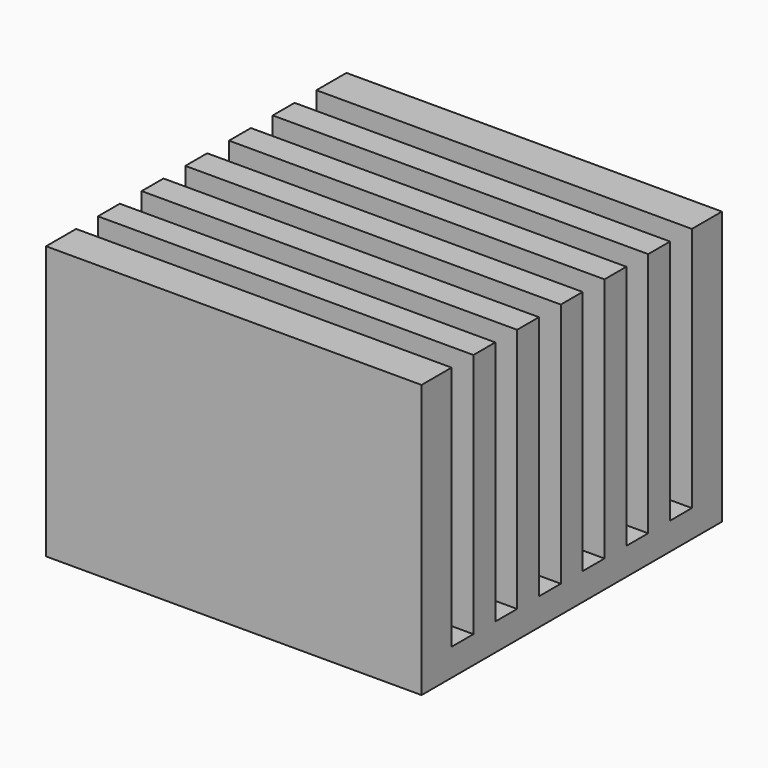
from build123d import *

# Parameters (mm, degrees)
SKETCH072_W            = 13.75
SKETCH072_H            = 13.75
PAD039_DEPTH           = 10
SKETCH073_W            = 20
SKETCH073_H            = 1
POCKET034_DEPTH        = 9
LINEARPATTERN001_COUNT = 6
LINEARPATTERN001_PITCH = 2


with BuildPart() as part:
    # Sketch072 → Pad039 (new body)
    with BuildSketch(Plane.XY):
        Rectangle(SKETCH072_W, SKETCH072_H)
    extrude(amount=PAD039_DEPTH)

    # Sketch073 → Pocket034 (cut)
    with BuildSketch(Plane(origin=(0, -5, 10), x_dir=(1, 0, 0), z_dir=(0, 0, 1))):
        Rectangle(SKETCH073_W, SKETCH073_H)
    pocket034 = extrude(amount=-POCKET034_DEPTH, mode=Mode.SUBTRACT)

    # LinearPattern001: Pocket034 ×6
    with Locations(*[(0, i * LINEARPATTERN001_PITCH, 0) for i in range(1, LINEARPATTERN001_COUNT)]):
        add(pocket034, mode=Mode.SUBTRACT)


solid = part.part
